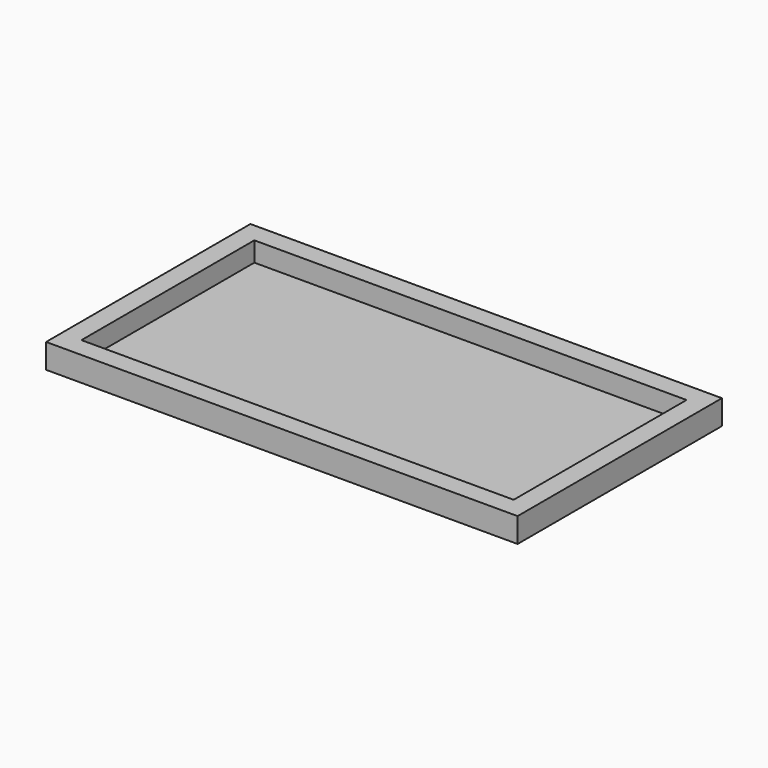
from build123d import *

# Parameters (mm, degrees)
F0_W     = 2438.4
F0_H     = 1320.8
F0_W_2   = 2235.2
F0_H_2   = 1117.6
F1_DEPTH = 25.4
F2_W     = 2438.4
F2_H     = 1320.8
F2_W_2   = 2235.2
F2_H_2   = 1117.6
F3_DEPTH = 101.6


with BuildPart() as f1:
    # F0 (on Top) → F1 (new body)
    with BuildSketch(Plane.XY):
        Rectangle(F0_W, F0_H)
        Rectangle(F0_W_2, F0_H_2, mode=Mode.SUBTRACT)
        Rectangle(F0_W_2, F0_H_2)
    extrude(amount=F1_DEPTH)

    # F2 (on face) → F3 (join)
    with BuildSketch(Plane.XY.offset(25.4)):
        Rectangle(F2_W, F2_H)
        Rectangle(F2_W_2, F2_H_2, mode=Mode.SUBTRACT)
    extrude(amount=F3_DEPTH)


solid = f1.part
